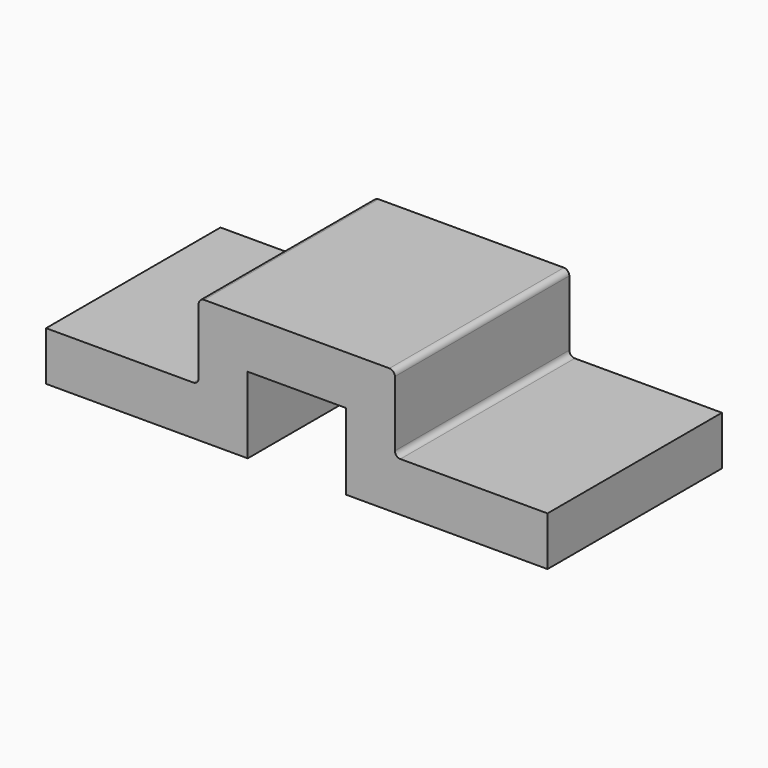
from build123d import *

# Parameters (mm, degrees)
F1_DEPTH = 1016


with BuildPart() as f1:
    # F0 (on Front) → F1 (new body)
    with BuildSketch(Plane.XZ):
        with BuildLine():
            Line((-1393.375381, -25.4), (-1393.375381, -254))
            Line((-1393.375381, -254), (-453.575381, -254))
            Line((-453.575381, -254), (-453.575381, 101.6))
            Line((-453.575381, 101.6), (3.624619, 101.6))
            Line((3.624619, 101.6), (3.624619, -254))
            Line((3.624619, -254), (943.424619, -254))
            Line((943.424619, -254), (943.424619, -25.4))
            Line((943.424619, -25.4), (257.624619, -25.4))
            ThreePointArc((257.624619, -25.4), (239.664107, -17.960512), (232.224619, 0))
            Line((232.224619, 0), (232.224619, 304.8))
            ThreePointArc((232.224619, 304.8), (224.785132, 322.760512), (206.824619, 330.2))
            Line((206.824619, 330.2), (-656.775381, 330.2))
            ThreePointArc((-656.775381, 330.2), (-674.735893, 322.760512), (-682.175381, 304.8))
            Line((-682.175381, 304.8), (-682.175381, 0))
            ThreePointArc((-682.175381, 0), (-689.614868, -17.960512), (-707.575381, -25.4))
            Line((-707.575381, -25.4), (-1393.375381, -25.4))
        make_face()
    extrude(amount=F1_DEPTH)


solid = f1.part
